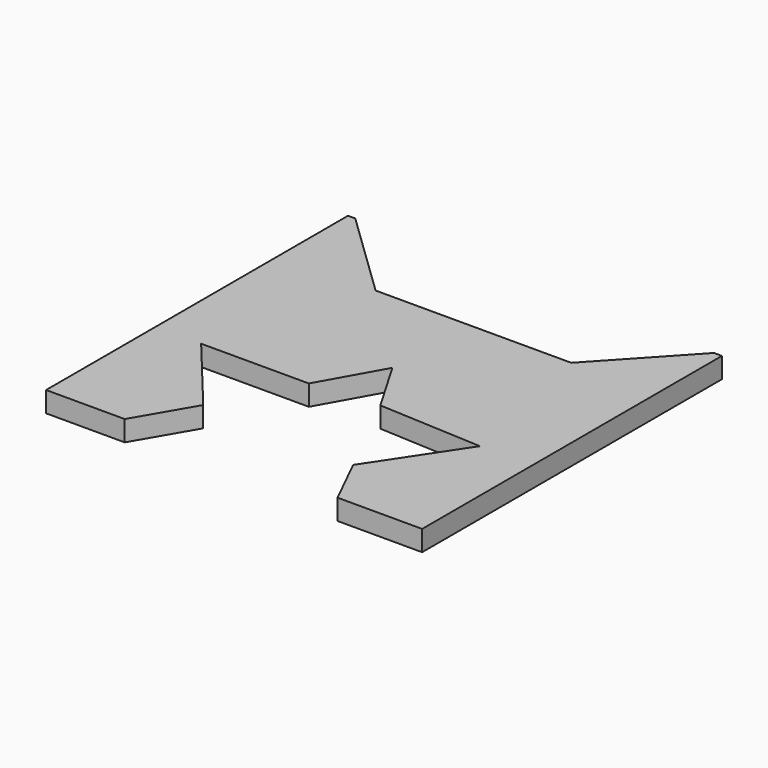
from build123d import *

# Parameters (mm, degrees)
F1_DEPTH = 3


with BuildPart() as f1:
    # F0 (on Top) → F1 (new body)
    with BuildSketch(Plane.XY):
        Polygon((3.426838, -2.356343), (2.365185, -2.356343), (2.365185, -57.465766), (13.850337, -57.465766), (18.67603, -49.165573), (9.024642, -37.487395), (24.756404, -37.487395), (29.775126, -28.511604), (34.504306, -36.618769), (49.656983, -37.39088), (41.260276, -50.034199), (44.927802, -57.465766), (57.28158, -57.465766), (57.28158, -2.7424), (56.123413, -2.7424), (44.927802, -14.806633), (16.359698, -14.806633), align=None)
    extrude(amount=F1_DEPTH)


solid = f1.part
